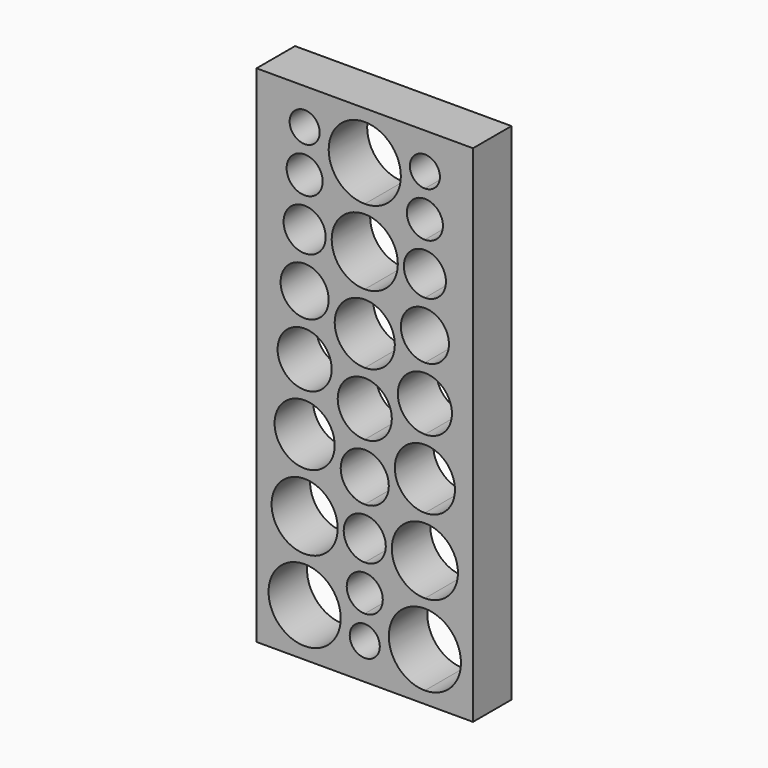
from build123d import *

# Parameters (mm, degrees)
F0_W     = 114.3
F0_H     = 266.7
F1_DEPTH = 25.4
F2_R     = 19.05
F2_R_2   = 17.4625
F2_R_3   = 15.875
F2_R_4   = 14.2875
F2_R_5   = 12.7
F2_R_6   = 11.1125
F2_R_7   = 9.525
F2_R_8   = 7.9375
F3_DEPTH = 25.4
F5_DEPTH = 25.4


with BuildPart() as f1:
    # F0 (on Front) → F1 (new body)
    with BuildSketch(Plane.XZ):
        with Locations((-57.15, 133.35)):
            Rectangle(F0_W, F0_H)
    extrude(amount=F1_DEPTH)

    # F2 (on face) → F3 (cut)
    with BuildSketch(Plane.XZ.offset(25.4)):
        with BuildLine():
            ThreePointArc((-25.4, 44.45), (-44.45, 25.4), (-25.4, 6.35))
            Line((-25.4, 6.35), (-25.4, 25.4))
            Line((-25.4, 25.4), (-25.4, 44.45))
        make_face()
        with BuildLine():
            ThreePointArc((-17.4625, 247.65), (-31.01266, 253.26266), (-25.4, 239.7125))
            ThreePointArc((-25.4, 239.7125), (-19.78734, 242.03734), (-17.4625, 247.65))
        make_face()
        with BuildLine():
            ThreePointArc((-25.4, 234.95), (-34.925, 225.425), (-25.4, 215.9))
            Line((-25.4, 215.9), (-25.4, 225.425))
            Line((-25.4, 225.425), (-25.4, 234.95))
        make_face()
        with BuildLine():
            Line((-25.4, 225.425), (-25.4, 215.9))
            ThreePointArc((-25.4, 215.9), (-18.664808, 218.689808), (-15.875, 225.425))
            ThreePointArc((-15.875, 225.425), (-18.664808, 232.160192), (-25.4, 234.95))
            Line((-25.4, 234.95), (-25.4, 225.425))
        make_face()
        with BuildLine():
            ThreePointArc((-25.4, 211.1375), (-36.5125, 200.025), (-25.4, 188.9125))
            Line((-25.4, 188.9125), (-25.4, 200.025))
            Line((-25.4, 200.025), (-25.4, 211.1375))
        make_face()
        with BuildLine():
            Line((-25.4, 200.025), (-25.4, 188.9125))
            ThreePointArc((-25.4, 188.9125), (-17.542276, 192.167276), (-14.2875, 200.025))
            ThreePointArc((-14.2875, 200.025), (-17.542276, 207.882724), (-25.4, 211.1375))
            Line((-25.4, 211.1375), (-25.4, 200.025))
        make_face()
        with BuildLine():
            ThreePointArc((-25.4, 184.15), (-38.1, 171.45), (-25.4, 158.75))
            Line((-25.4, 158.75), (-25.4, 171.45))
            Line((-25.4, 171.45), (-25.4, 184.15))
        make_face()
        with BuildLine():
            Line((-25.4, 171.45), (-25.4, 158.75))
            ThreePointArc((-25.4, 158.75), (-16.419744, 162.469744), (-12.7, 171.45))
            ThreePointArc((-12.7, 171.45), (-16.419744, 180.430256), (-25.4, 184.15))
            Line((-25.4, 184.15), (-25.4, 171.45))
        make_face()
        with BuildLine():
            ThreePointArc((-25.4, 153.9875), (-39.6875, 139.7), (-25.4, 125.4125))
            Line((-25.4, 125.4125), (-25.4, 139.7))
            Line((-25.4, 139.7), (-25.4, 153.9875))
        make_face()
        with BuildLine():
            Line((-25.4, 139.7), (-25.4, 125.4125))
            ThreePointArc((-25.4, 125.4125), (-15.297212, 129.597212), (-11.1125, 139.7))
            ThreePointArc((-11.1125, 139.7), (-15.297212, 149.802788), (-25.4, 153.9875))
            Line((-25.4, 153.9875), (-25.4, 139.7))
        make_face()
        with BuildLine():
            ThreePointArc((-25.4, 120.65), (-41.275, 104.775), (-25.4, 88.9))
            Line((-25.4, 88.9), (-25.4, 104.775))
            Line((-25.4, 104.775), (-25.4, 120.65))
        make_face()
        with BuildLine():
            Line((-25.4, 104.775), (-25.4, 88.9))
            ThreePointArc((-25.4, 88.9), (-14.17468, 93.54968), (-9.525, 104.775))
            ThreePointArc((-9.525, 104.775), (-14.17468, 116.00032), (-25.4, 120.65))
            Line((-25.4, 120.65), (-25.4, 104.775))
        make_face()
        with BuildLine():
            ThreePointArc((-25.4, 84.1375), (-42.8625, 66.675), (-25.4, 49.2125))
            Line((-25.4, 49.2125), (-25.4, 66.675))
            Line((-25.4, 66.675), (-25.4, 84.1375))
        make_face()
        with BuildLine():
            Line((-25.4, 66.675), (-25.4, 49.2125))
            ThreePointArc((-25.4, 49.2125), (-13.052148, 54.327148), (-7.9375, 66.675))
            ThreePointArc((-7.9375, 66.675), (-13.052148, 79.022852), (-25.4, 84.1375))
            Line((-25.4, 84.1375), (-25.4, 66.675))
        make_face()
        with BuildLine():
            Line((-25.4, 25.4), (-25.4, 6.35))
            ThreePointArc((-25.4, 6.35), (-11.929616, 11.929616), (-6.35, 25.4))
            ThreePointArc((-6.35, 25.4), (-11.929616, 38.870384), (-25.4, 44.45))
            Line((-25.4, 44.45), (-25.4, 25.4))
        make_face()
        with Locations((-88.9, 25.4)):
            Circle(F2_R)
        with Locations((-88.9, 66.675)):
            Circle(F2_R_2)
        with Locations((-88.9, 104.775)):
            Circle(F2_R_3)
        with Locations((-88.9, 139.7)):
            Circle(F2_R_4)
        with Locations((-88.9, 171.45)):
            Circle(F2_R_5)
        with Locations((-88.9, 200.025)):
            Circle(F2_R_6)
        with Locations((-88.9, 225.425)):
            Circle(F2_R_7)
        with Locations((-88.9, 247.65)):
            Circle(F2_R_8)
    extrude(amount=-F3_DEPTH, mode=Mode.SUBTRACT)

    # F4 (on face) → F5 (cut)
    with BuildSketch(Plane.XZ.offset(25.4)):
        with BuildLine():
            ThreePointArc((-57.15, 260.35), (-76.2, 241.3), (-57.15, 222.25))
            Line((-57.15, 222.25), (-57.15, 241.3))
            Line((-57.15, 241.3), (-57.15, 260.35))
        make_face()
        with BuildLine():
            Line((-57.15, 241.3), (-57.15, 222.25))
            ThreePointArc((-57.15, 222.25), (-43.679616, 227.829616), (-38.1, 241.3))
            ThreePointArc((-38.1, 241.3), (-43.679616, 254.770384), (-57.15, 260.35))
            Line((-57.15, 260.35), (-57.15, 241.3))
        make_face()
        with BuildLine():
            ThreePointArc((-57.15, 217.4875), (-74.6125, 200.025), (-57.15, 182.5625))
            Line((-57.15, 182.5625), (-57.15, 200.025))
            Line((-57.15, 200.025), (-57.15, 217.4875))
        make_face()
        with BuildLine():
            Line((-57.15, 200.025), (-57.15, 182.5625))
            ThreePointArc((-57.15, 182.5625), (-44.802148, 187.677148), (-39.6875, 200.025))
            ThreePointArc((-39.6875, 200.025), (-44.802148, 212.372852), (-57.15, 217.4875))
            Line((-57.15, 217.4875), (-57.15, 200.025))
        make_face()
        with BuildLine():
            ThreePointArc((-57.15, 177.8), (-73.025, 161.925), (-57.15, 146.05))
            Line((-57.15, 146.05), (-57.15, 161.925))
            Line((-57.15, 161.925), (-57.15, 177.8))
        make_face()
        with BuildLine():
            Line((-57.15, 161.925), (-57.15, 146.05))
            ThreePointArc((-57.15, 146.05), (-45.92468, 150.69968), (-41.275, 161.925))
            ThreePointArc((-41.275, 161.925), (-45.92468, 173.15032), (-57.15, 177.8))
            Line((-57.15, 177.8), (-57.15, 161.925))
        make_face()
        with BuildLine():
            ThreePointArc((-57.15, 141.2875), (-71.4375, 127), (-57.15, 112.7125))
            Line((-57.15, 112.7125), (-57.15, 127))
            Line((-57.15, 127), (-57.15, 141.2875))
        make_face()
        with BuildLine():
            Line((-57.15, 127), (-57.15, 112.7125))
            ThreePointArc((-57.15, 112.7125), (-47.047212, 116.897212), (-42.8625, 127))
            ThreePointArc((-42.8625, 127), (-47.047212, 137.102788), (-57.15, 141.2875))
            Line((-57.15, 141.2875), (-57.15, 127))
        make_face()
        with BuildLine():
            ThreePointArc((-57.15, 107.95), (-69.85, 95.25), (-57.15, 82.55))
            Line((-57.15, 82.55), (-57.15, 95.25))
            Line((-57.15, 95.25), (-57.15, 107.95))
        make_face()
        with BuildLine():
            Line((-57.15, 95.25), (-57.15, 82.55))
            ThreePointArc((-57.15, 82.55), (-48.169744, 86.269744), (-44.45, 95.25))
            ThreePointArc((-44.45, 95.25), (-48.169744, 104.230256), (-57.15, 107.95))
            Line((-57.15, 107.95), (-57.15, 95.25))
        make_face()
        with BuildLine():
            ThreePointArc((-57.15, 77.7875), (-68.2625, 66.675), (-57.15, 55.5625))
            Line((-57.15, 55.5625), (-57.15, 66.675))
            Line((-57.15, 66.675), (-57.15, 77.7875))
        make_face()
        with BuildLine():
            Line((-57.15, 66.675), (-57.15, 55.5625))
            ThreePointArc((-57.15, 55.5625), (-49.292276, 58.817276), (-46.0375, 66.675))
            ThreePointArc((-46.0375, 66.675), (-49.292276, 74.532724), (-57.15, 77.7875))
            Line((-57.15, 77.7875), (-57.15, 66.675))
        make_face()
        with BuildLine():
            ThreePointArc((-57.15, 50.8), (-66.675, 41.275), (-57.15, 31.75))
            Line((-57.15, 31.75), (-57.15, 41.275))
            Line((-57.15, 41.275), (-57.15, 50.8))
        make_face()
        with BuildLine():
            Line((-57.15, 41.275), (-57.15, 31.75))
            ThreePointArc((-57.15, 31.75), (-50.414808, 34.539808), (-47.625, 41.275))
            ThreePointArc((-47.625, 41.275), (-50.414808, 48.010192), (-57.15, 50.8))
            Line((-57.15, 50.8), (-57.15, 41.275))
        make_face()
        with BuildLine():
            ThreePointArc((-49.2125, 19.05), (-51.53734, 24.66266), (-57.15, 26.9875))
            ThreePointArc((-57.15, 26.9875), (-62.76266, 13.43734), (-49.2125, 19.05))
        make_face()
    extrude(amount=-F5_DEPTH, mode=Mode.SUBTRACT)


solid = f1.part
